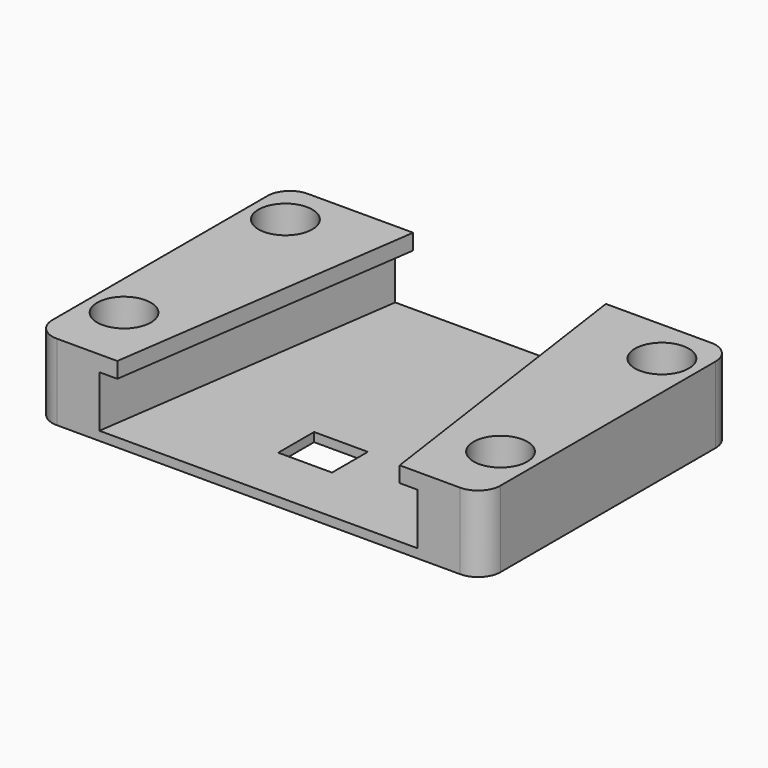
from build123d import *

# Parameters (mm, degrees)
F0_R     = 6
F0_W     = 12
F0_H     = 10
F0_R_2   = 2.75
F1_DEPTH = 2
F2_DEPTH = 15
F3_W     = 4
F3_H     = 3.5
F6_DEPTH = 6


with BuildPart() as f1:
    # F0 (on Top) → F1 (new body)
    with BuildSketch(Plane.XY):
        with BuildLine():
            Line((-25.5, 35), (-45, 35))
            ThreePointArc((-45, 35), (-48.5355339059, 33.5355339059), (-50, 30))
            Line((-50, 30), (-50, -30))
            ThreePointArc((-50, -30), (-48.5355339059, -33.5355339059), (-45, -35))
            Line((-45, -35), (-35.5, -35))
            Line((-35.5, -35), (-25.5, 35))
        make_face()
        with Locations((-42, -20)):
            Circle(F0_R, mode=Mode.SUBTRACT)
        with Locations((-42, 25)):
            Circle(F0_R, mode=Mode.SUBTRACT)
        with BuildLine():
            Line((-25.5, 35), (-45, 35))
            ThreePointArc((-45, 35), (-48.5355339059, 33.5355339059), (-50, 30))
            Line((-50, 30), (-50, -30))
            ThreePointArc((-50, -30), (-48.5355339059, -33.5355339059), (-45, -35))
            Line((-45, -35), (-35.5, -35))
            Line((-35.5, -35), (-25.5, 35))
        make_face()
        with Locations((-42, -20)):
            Circle(F0_R, mode=Mode.SUBTRACT)
        with Locations((-42, 25)):
            Circle(F0_R, mode=Mode.SUBTRACT)
        Polygon((25.5, 35), (-25.5, 35), (-35.5, -35), (35.5, -35), align=None)
        with Locations((0, -17)):
            Rectangle(F0_W, F0_H, mode=Mode.SUBTRACT)
        with BuildLine():
            Line((45, 35), (25.5, 35))
            Line((25.5, 35), (35.5, -35))
            Line((35.5, -35), (45, -35))
            ThreePointArc((45, -35), (48.5355339059, -33.5355339059), (50, -30))
            Line((50, -30), (50, 30))
            ThreePointArc((50, 30), (48.5355339059, 33.5355339059), (45, 35))
        make_face()
        with Locations((42, -20)):
            Circle(F0_R, mode=Mode.SUBTRACT)
        with Locations((42, 25)):
            Circle(F0_R, mode=Mode.SUBTRACT)
        with BuildLine():
            Line((45, 35), (25.5, 35))
            Line((25.5, 35), (35.5, -35))
            Line((35.5, -35), (45, -35))
            ThreePointArc((45, -35), (48.5355339059, -33.5355339059), (50, -30))
            Line((50, -30), (50, 30))
            ThreePointArc((50, 30), (48.5355339059, 33.5355339059), (45, 35))
        make_face()
        with Locations((42, -20)):
            Circle(F0_R, mode=Mode.SUBTRACT)
        with Locations((42, 25)):
            Circle(F0_R, mode=Mode.SUBTRACT)
        with Locations((-42, 25)):
            Circle(F0_R)
        with Locations((-42, 25)):
            Circle(F0_R_2, mode=Mode.SUBTRACT)
        with Locations((-42, -20)):
            Circle(F0_R)
        with Locations((-42, -20)):
            Circle(F0_R_2, mode=Mode.SUBTRACT)
        with Locations((42, -20)):
            Circle(F0_R)
        with Locations((42, -20)):
            Circle(F0_R_2, mode=Mode.SUBTRACT)
        with Locations((42, 25)):
            Circle(F0_R)
        with Locations((42, 25)):
            Circle(F0_R_2, mode=Mode.SUBTRACT)
    extrude(amount=-F1_DEPTH)

    # F0 (on Top) → F2 (join)
    with BuildSketch(Plane.XY):
        with BuildLine():
            Line((-25.5, 35), (-45, 35))
            ThreePointArc((-45, 35), (-48.5355339059, 33.5355339059), (-50, 30))
            Line((-50, 30), (-50, -30))
            ThreePointArc((-50, -30), (-48.5355339059, -33.5355339059), (-45, -35))
            Line((-45, -35), (-35.5, -35))
            Line((-35.5, -35), (-25.5, 35))
        make_face()
        with Locations((-42, -20)):
            Circle(F0_R, mode=Mode.SUBTRACT)
        with Locations((-42, 25)):
            Circle(F0_R, mode=Mode.SUBTRACT)
        with BuildLine():
            Line((45, 35), (25.5, 35))
            Line((25.5, 35), (35.5, -35))
            Line((35.5, -35), (45, -35))
            ThreePointArc((45, -35), (48.5355339059, -33.5355339059), (50, -30))
            Line((50, -30), (50, 30))
            ThreePointArc((50, 30), (48.5355339059, 33.5355339059), (45, 35))
        make_face()
        with Locations((42, -20)):
            Circle(F0_R, mode=Mode.SUBTRACT)
        with Locations((42, 25)):
            Circle(F0_R, mode=Mode.SUBTRACT)
        with BuildLine():
            Line((45, 35), (25.5, 35))
            Line((25.5, 35), (35.5, -35))
            Line((35.5, -35), (45, -35))
            ThreePointArc((45, -35), (48.5355339059, -33.5355339059), (50, -30))
            Line((50, -30), (50, 30))
            ThreePointArc((50, 30), (48.5355339059, 33.5355339059), (45, 35))
        make_face()
        with Locations((42, -20)):
            Circle(F0_R, mode=Mode.SUBTRACT)
        with Locations((42, 25)):
            Circle(F0_R, mode=Mode.SUBTRACT)
        with BuildLine():
            Line((-25.5, 35), (-45, 35))
            ThreePointArc((-45, 35), (-48.5355339059, 33.5355339059), (-50, 30))
            Line((-50, 30), (-50, -30))
            ThreePointArc((-50, -30), (-48.5355339059, -33.5355339059), (-45, -35))
            Line((-45, -35), (-35.5, -35))
            Line((-35.5, -35), (-25.5, 35))
        make_face()
        with Locations((-42, -20)):
            Circle(F0_R, mode=Mode.SUBTRACT)
        with Locations((-42, 25)):
            Circle(F0_R, mode=Mode.SUBTRACT)
    extrude(amount=F2_DEPTH)

    # F4: sweep along a path in F4_path
    with BuildLine(Plane(origin=(-35.5, -35, 15), x_dir=(-0.1414213562, -0.9899494937, 0), z_dir=(0.9899494937, -0.1414213562, 0))) as f4_path:
        Line((0, 0), (-70.7106781187, 0))
    # F3 (on face) → F4 (sweep)
    with BuildSketch(Plane.XZ.offset(35)):
        with Locations((-33.5, 13.25)):
            Rectangle(F3_W, F3_H)
    sweep(path=f4_path.line)

    # F5: sweep along a path in F5_path
    with BuildLine(Plane(origin=(35.5, -35, 15), x_dir=(0.1414213562, -0.9899494937, 0), z_dir=(0.9899494937, 0.1414213562, 0))) as f5_path:
        Line((0, 0), (-70.7106781187, 0))
    # F3 (on face) → F5 (sweep)
    with BuildSketch(Plane.XZ.offset(35)):
        with Locations((33.5, 13.25)):
            Rectangle(F3_W, F3_H)
    sweep(path=f5_path.line)

    # F0 (on Top) → F6 (join)
    with BuildSketch(Plane.XY):
        with Locations((-42, -20)):
            Circle(F0_R)
        with Locations((-42, -20)):
            Circle(F0_R_2, mode=Mode.SUBTRACT)
        with Locations((-42, 25)):
            Circle(F0_R)
        with Locations((-42, 25)):
            Circle(F0_R_2, mode=Mode.SUBTRACT)
        with Locations((42, 25)):
            Circle(F0_R)
        with Locations((42, 25)):
            Circle(F0_R_2, mode=Mode.SUBTRACT)
        with Locations((42, -20)):
            Circle(F0_R)
        with Locations((42, -20)):
            Circle(F0_R_2, mode=Mode.SUBTRACT)
    extrude(amount=F6_DEPTH)


solid = f1.part
